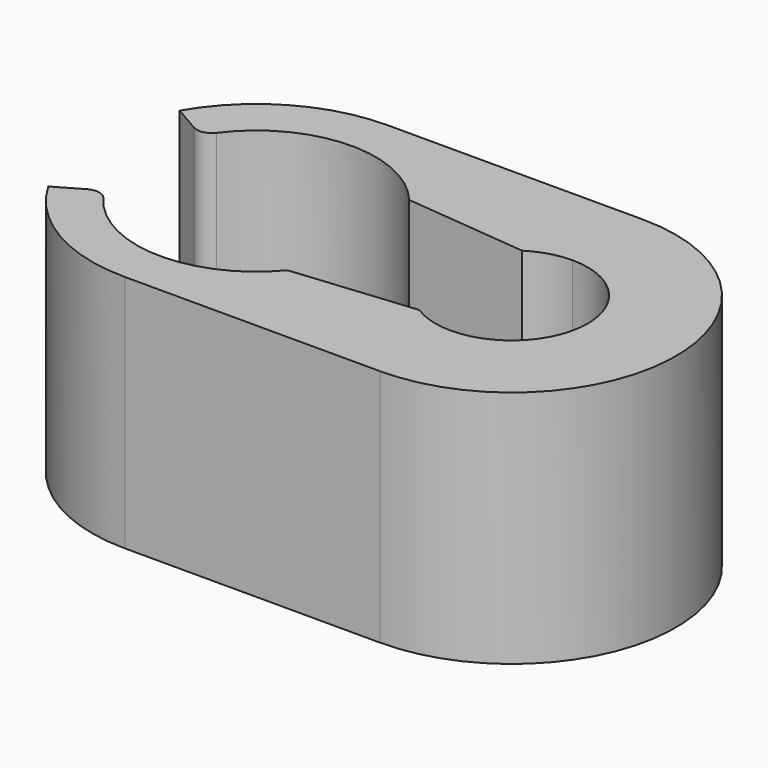
from build123d import *

# Parameters (mm, degrees)
F1_DEPTH = 8
F2_R     = 0.5


with BuildPart() as f1:
    # F0 (on Top) → F1 (new body)
    with BuildSketch(Plane.XY):
        with BuildLine():
            ThreePointArc((-3.464102, 2), (-0.334908, 3.985955), (3.081801, 2.55))
            Line((3.081801, 2.55), (7.178869, 2.15))
            ThreePointArc((7.178869, 2.15), (7.835857, 2.447958), (8.55, 2.55))
            ThreePointArc((8.55, 2.55), (11.1, 0), (8.55, -2.55))
            ThreePointArc((8.55, -2.55), (7.835857, -2.447958), (7.178869, -2.15))
            Line((7.178869, -2.15), (3.081801, -2.55))
            ThreePointArc((3.081801, -2.55), (-0.334908, -3.985955), (-3.464102, -2))
            Line((-3.464102, -2), (-4.76314, -2.75))
            ThreePointArc((-4.76314, -2.75), (-2.75, -4.76314), (0, -5.5))
            ThreePointArc((0, -5.5), (1.996873, -5.124695), (3.721223, -4.05))
            Line((3.721223, -4.05), (8.55, -4.05))
            ThreePointArc((8.55, -4.05), (12.6, 0), (8.55, 4.05))
            Line((8.55, 4.05), (3.721223, 4.05))
            ThreePointArc((3.721223, 4.05), (1.996873, 5.124695), (0, 5.5))
            ThreePointArc((0, 5.5), (-2.75, 4.76314), (-4.76314, 2.75))
            Line((-4.76314, 2.75), (-3.464102, 2))
        make_face()
        with BuildLine():
            Line((8.55, 5.5), (0, 5.5))
            ThreePointArc((0, 5.5), (1.996873, 5.124695), (3.721223, 4.05))
            Line((3.721223, 4.05), (8.55, 4.05))
            ThreePointArc((8.55, 4.05), (12.6, 0), (8.55, -4.05))
            Line((8.55, -4.05), (3.721223, -4.05))
            ThreePointArc((3.721223, -4.05), (1.996873, -5.124695), (0, -5.5))
            Line((0, -5.5), (8.55, -5.5))
            ThreePointArc((8.55, -5.5), (14.05, 0), (8.55, 5.5))
        make_face()
    extrude(amount=F1_DEPTH)

    # F2
    f2_edges = [f1.edges().sort_by_distance(p)[0] for p in [
        (-3.464102, -2, 4),
        (-3.464102, 2, 4),
    ]]
    fillet(f2_edges, radius=F2_R)


solid = f1.part
